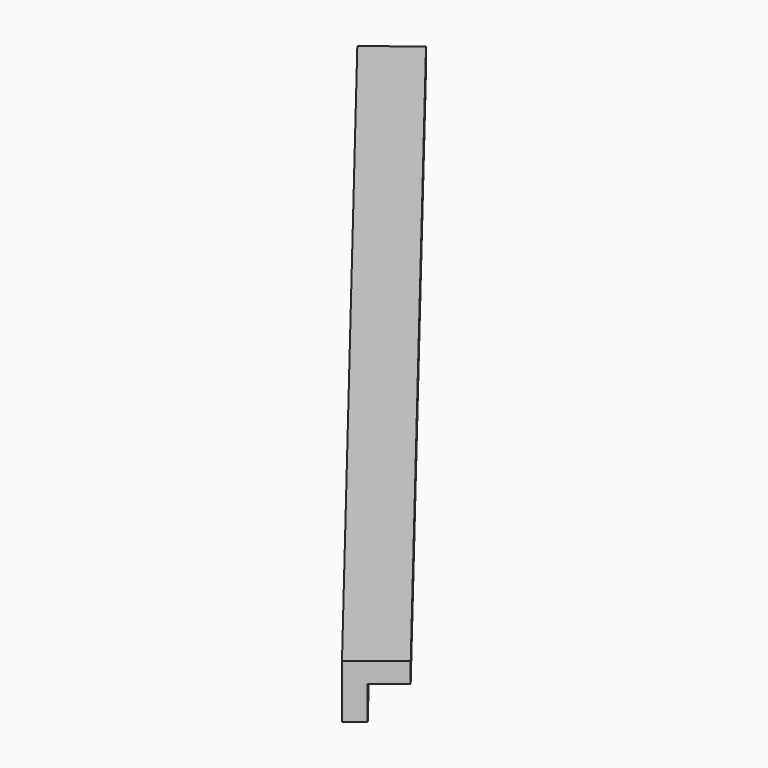
from build123d import *

# Parameters (mm, degrees)
BOX155_W               = 0.8
BOX155_H               = 15.5
BOX155_DEPTH           = 0.8
BOX156_W               = 0.8
BOX156_H               = 15.5
BOX156_DEPTH           = 0.8
CUT081_PLACEMENT_ANGLE = 218


with BuildPart() as cubo155:
    # Box155 → Box155 (new body)
    with BuildSketch(Plane.XY):
        with Locations((0.4, 7.75)):
            Rectangle(BOX155_W, BOX155_H)
    extrude(amount=BOX155_DEPTH)


with BuildPart() as obj1:
    # Box156 → Box156 (new body)
    with BuildSketch(Plane(origin=(0.3, 0, 0.3), x_dir=(1, 0, 0), z_dir=(0, 0, 1))):
        with Locations((0.4, 7.75)):
            Rectangle(BOX156_W, BOX156_H)
    extrude(amount=BOX156_DEPTH)

    # Cut081: cut Cubo155
    add(cubo155.part, mode=Mode.SUBTRACT)


with BuildPart() as obj1_1:
    # Cut081 placement: moved
    add(obj1.part.moved(Location((-218.3, 69.9, -1.45))).rotate(Axis((-218.3, 69.9, -1.45), (0, 0, 1)), CUT081_PLACEMENT_ANGLE))


solid = obj1_1.part
